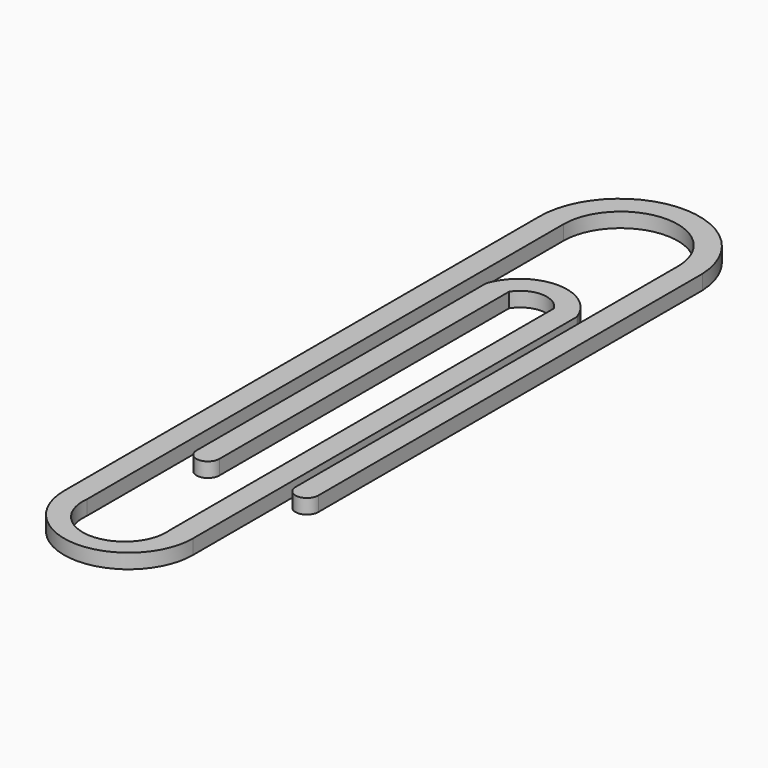
from build123d import *

# Parameters (mm, degrees)
F1_DEPTH = 1.016


with BuildPart() as f1:
    # F0 (on Top) → F1 (new body)
    with BuildSketch(Plane.XY):
        with BuildLine():
            ThreePointArc((-8.645071, 13.866992), (-14.323912, 19.173878), (-19.757571, 13.616213))
            Line((-19.757571, 13.616213), (-19.757571, -27.658787))
            ThreePointArc((-19.757571, -27.658787), (-15.280821, -32.135537), (-10.804071, -27.658787))
            Line((-10.804071, -27.658787), (-10.804071, 5.678713))
            ThreePointArc((-10.804071, 5.678713), (-13.957089, 7.946792), (-17.110107, 5.678713))
            Line((-17.110107, 5.678713), (-17.110107, -19.470508))
            ThreePointArc((-17.110107, -19.470508), (-16.316357, -20.264258), (-15.522607, -19.470508))
            Line((-15.522607, -19.470508), (-15.522607, 5.678713))
            ThreePointArc((-15.522607, 5.678713), (-13.957089, 6.548526), (-12.391571, 5.678713))
            Line((-12.391571, 5.678713), (-12.391571, -27.658787))
            ThreePointArc((-12.391571, -27.658787), (-15.280821, -30.904862), (-18.170071, -27.658787))
            Line((-18.170071, -27.658787), (-18.170071, 13.716))
            ThreePointArc((-18.170071, 13.716), (-14.275394, 17.685468), (-10.232571, 13.866992))
            Line((-10.232571, 13.866992), (-10.232571, -19.470508))
            ThreePointArc((-10.232571, -19.470508), (-9.438821, -20.264258), (-8.645071, -19.470508))
            Line((-8.645071, -19.470508), (-8.645071, 13.866992))
        make_face()
    extrude(amount=F1_DEPTH)


solid = f1.part
